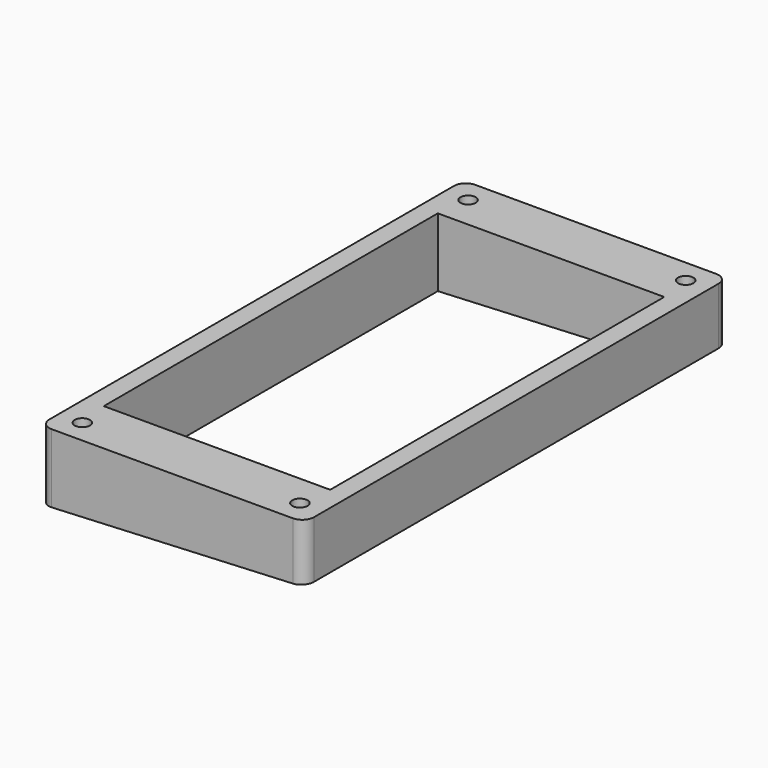
from build123d import *

# Parameters (mm, degrees)
F0_R     = 1.3
F0_W     = 38.5
F0_H     = 71
F1_DEPTH = 11.8
F3_DEPTH = 200


with BuildPart() as f1:
    # F0 (on Top) → F1 (new body)
    with BuildSketch(Plane.XY):
        with BuildLine():
            Line((20.5, 45), (-20.5, 45))
            ThreePointArc((-20.5, 45), (-21.914214, 44.414214), (-22.5, 43))
            Line((-22.5, 43), (-22.5, -43))
            ThreePointArc((-22.5, -43), (-21.914214, -44.414214), (-20.5, -45))
            Line((-20.5, -45), (20.5, -45))
            ThreePointArc((20.5, -45), (21.914214, -44.414214), (22.5, -43))
            Line((22.5, -43), (22.5, 43))
            ThreePointArc((22.5, 43), (21.914214, 44.414214), (20.5, 45))
        make_face()
        with Locations((-18.5, -41)):
            Circle(F0_R, mode=Mode.SUBTRACT)
        with Locations((18.5, -41)):
            Circle(F0_R, mode=Mode.SUBTRACT)
        with Locations((-18.5, 41)):
            Circle(F0_R, mode=Mode.SUBTRACT)
        Rectangle(F0_W, F0_H, mode=Mode.SUBTRACT)
        with Locations((18.5, 41)):
            Circle(F0_R, mode=Mode.SUBTRACT)
    extrude(amount=F1_DEPTH)

    # F2 (on Front) → F3 (cut, symmetric)
    with BuildSketch(Plane.XZ):
        Polygon((22.5, 2.122146), (-22.5, 0), (22.5, 0), align=None)
    extrude(amount=F3_DEPTH, both=True, mode=Mode.SUBTRACT)


solid = f1.part
